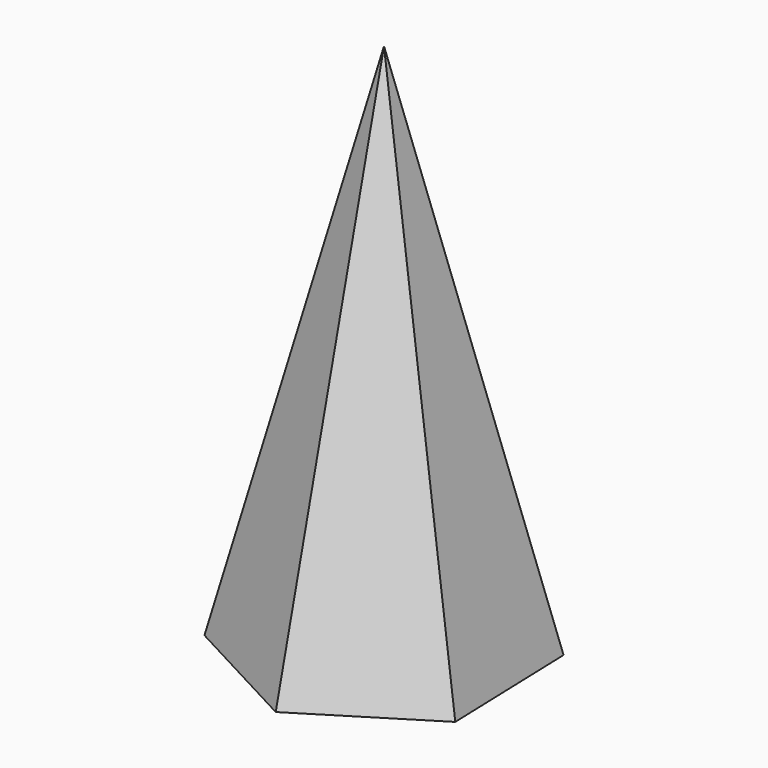
from build123d import *


with BuildPart() as f3:
    # F0 (on Top) → F3 section 0
    with BuildSketch(Plane.XY, mode=Mode.PRIVATE) as f3_s0:
        Polygon((23.610159, -12.62088), (22.735082, 14.136557), (-0.875077, 26.757437), (-23.610159, 12.62088), (-22.735082, -14.136557), (0.875077, -26.757437), align=None)
    loft([f3_s0.sketch, Vertex(0, 0, 100)])


solid = f3.part
